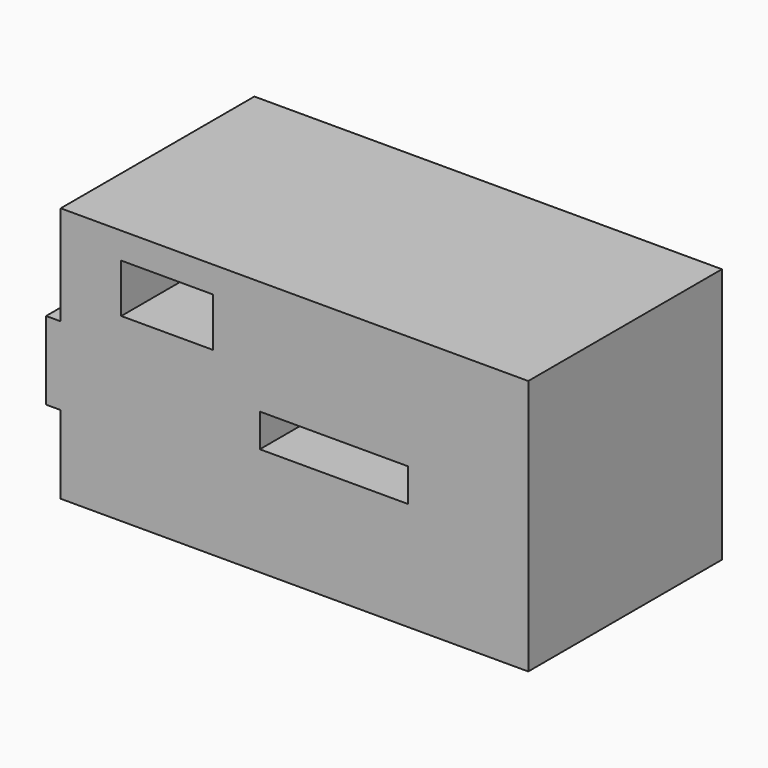
from build123d import *

# Parameters (mm, degrees)
F0_W     = 27.5806430727
F0_H     = 6.1693564057
F0_W_2   = 17.0564502478
F0_H_2   = 9.0725803748
F0_W_3   = 18.6895169318
F0_H_3   = 14.5161282271
F0_W_4   = 2.7217715979
F1_DEPTH = 45


with BuildPart() as f1:
    # F0 (on Front) → F1 (new body)
    with BuildSketch(Plane.XZ):
        Polygon((49.5362915099, 18.3266140521), (-37.3790338635, 18.3266140521), (-37.3790338635, -0.1814523712), (-18.6895169318, -0.1814523712), (-18.6895169318, -14.6975805983), (-37.3790338635, -14.6975805983), (-37.3790338635, -29.2137116194), (49.5362915099, -29.2137116194), align=None)
        with Locations((13.4274205193, -5.9879031032)):
            Rectangle(F0_W, F0_H, mode=Mode.SUBTRACT)
        with Locations((-17.60080643, 8.8911289349)):
            Rectangle(F0_W_2, F0_H_2, mode=Mode.SUBTRACT)
        with Locations((-28.0342753977, -7.4395164847)):
            Rectangle(F0_W_3, F0_H_3)
        with Locations((-38.7399196625, -7.4395164847)):
            Rectangle(F0_W_4, F0_H_3)
    extrude(amount=F1_DEPTH)


solid = f1.part
